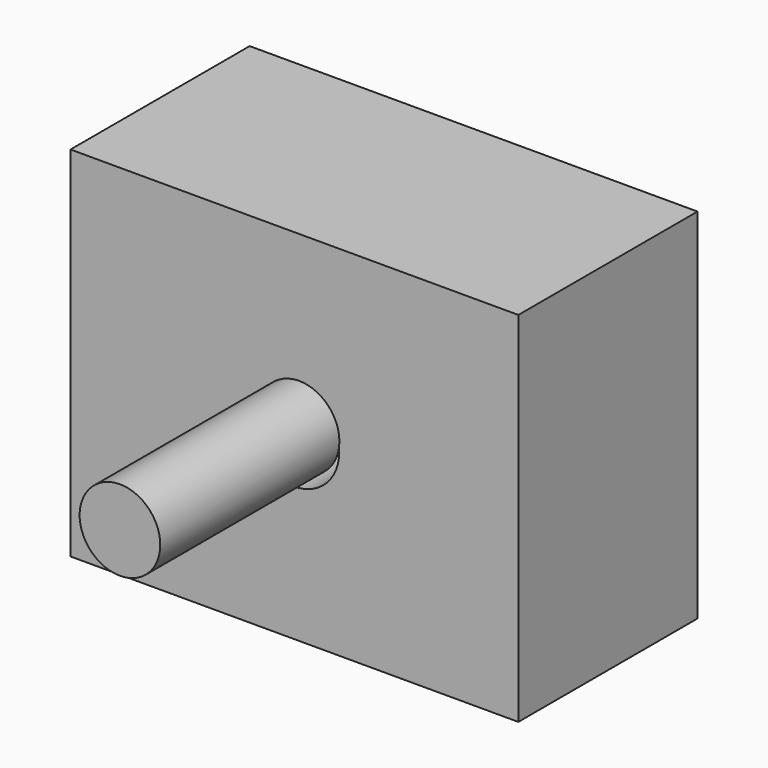
from build123d import *

# Parameters (mm, degrees)
F0_W     = 50
F0_H     = 40
F0_R     = 5
F1_DEPTH = 25
F3_R     = 4.5
F4_DEPTH = 25


with BuildPart() as f1:
    # F0 (on Front) → F1 (new body)
    with BuildSketch(Plane.XZ):
        with Locations((25, 20)):
            Rectangle(F0_W, F0_H)
        with Locations((25, 20)):
            Circle(F0_R, mode=Mode.SUBTRACT)
    extrude(amount=F1_DEPTH)


with BuildPart() as f4:
    # F3 (on offset) → F4 (new body)
    with BuildSketch(Plane.XZ.offset(50)):
        with Locations((25.5206041038, 21.0631620139)):
            Circle(F3_R)
    extrude(amount=-F4_DEPTH)


solid = Compound([f1.part, f4.part])
